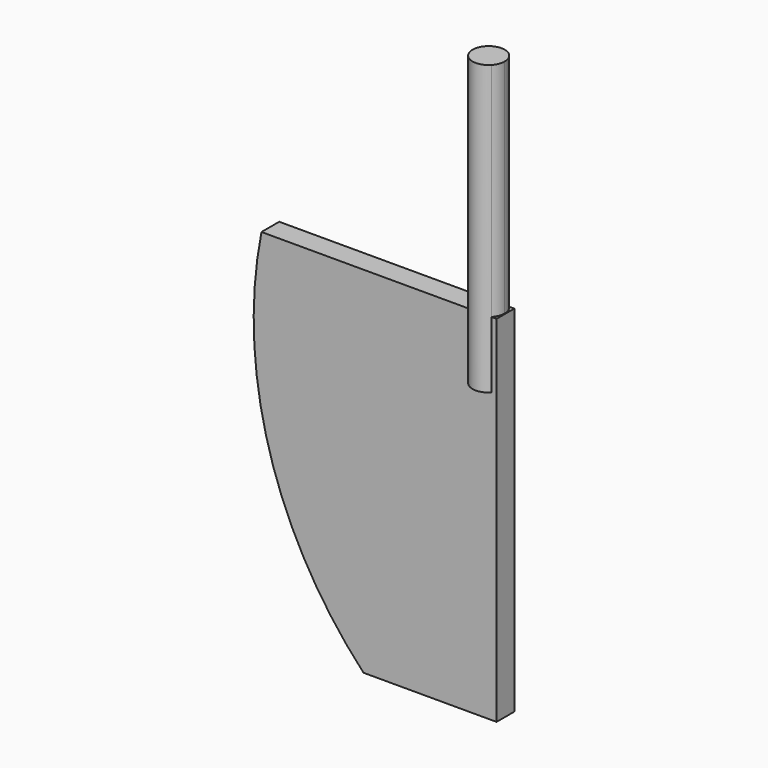
from build123d import *

# Parameters (mm, degrees)
F1_DEPTH = 5
F3_DEPTH = 15
F4_DEPTH = 50


with BuildPart() as f1:
    # F0 (on Front) → F1 (new body)
    with BuildSketch(Plane.XZ):
        with BuildLine():
            Line((0, -41.3114728638), (0, 38.6885271362))
            Line((0, 38.6885271362), (-53, 38.6885271362))
            ThreePointArc((-53, 38.6885271362), (-51.2309986969, -4.1091349892), (-30, -41.3114728638))
            Line((-30, -41.3114728638), (0, -41.3114728638))
        make_face()
    extrude(amount=F1_DEPTH)

    # F2 (on face) → F3 (join)
    with BuildSketch(Plane.XY.offset(38.6885271362)):
        with BuildLine():
            Line((-6.3985955209, 0), (-1.165957073, 0))
            ThreePointArc((-1.165957073, 0), (-3.782276297, 1.118718873), (-6.3985955209, 0))
        make_face()
        with BuildLine():
            ThreePointArc((-6.3985955209, -5), (-3.782276297, -6.118718873), (-1.165957073, -5))
            Line((-1.165957073, -5), (-6.3985955209, -5))
        make_face()
    extrude(amount=-F3_DEPTH)

    # F2 (on face) → F4 (join)
    with BuildSketch(Plane.XY.offset(38.6885271362)):
        with BuildLine():
            ThreePointArc((-1.165957073, -5), (-0.4234930325, -3.8467372662), (-0.163557424, -2.5))
            ThreePointArc((-0.163557424, -2.5), (-0.4234930325, -1.1532627338), (-1.165957073, 0))
            Line((-1.165957073, 0), (-6.3985955209, 0))
            ThreePointArc((-6.3985955209, 0), (-7.40099517, -2.5), (-6.3985955209, -5))
            Line((-6.3985955209, -5), (-1.165957073, -5))
        make_face()
        with BuildLine():
            Line((-6.3985955209, 0), (-1.165957073, 0))
            ThreePointArc((-1.165957073, 0), (-3.782276297, 1.118718873), (-6.3985955209, 0))
        make_face()
        with BuildLine():
            ThreePointArc((-6.3985955209, -5), (-3.782276297, -6.118718873), (-1.165957073, -5))
            Line((-1.165957073, -5), (-6.3985955209, -5))
        make_face()
    extrude(amount=F4_DEPTH)


solid = f1.part
